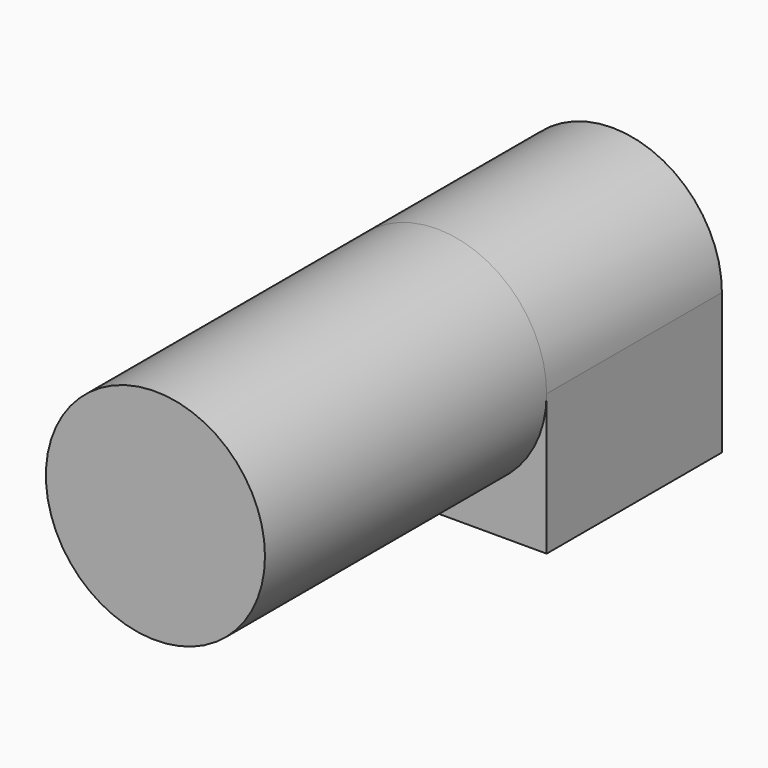
from build123d import *

# Parameters (mm, degrees)
F1_DEPTH = 500
F2_DEPTH = 311.15


with BuildPart() as f1:
    # F0 (on Front) → F1 (new body)
    with BuildSketch(Plane.XZ):
        with BuildLine():
            ThreePointArc((-155.575, 0), (0, -155.575), (155.575, 0))
            ThreePointArc((155.575, 0), (0, 155.575), (-155.575, 0))
        make_face()
    extrude(amount=F1_DEPTH)

    # F0 (on Front) → F2 (join)
    with BuildSketch(Plane.XZ):
        with BuildLine():
            ThreePointArc((-155.575, 0), (0, -155.575), (155.575, 0))
            ThreePointArc((155.575, 0), (0, 155.575), (-155.575, 0))
        make_face()
        with BuildLine():
            Line((155.575, -200), (155.575, 0))
            ThreePointArc((155.575, 0), (0, -155.575), (-155.575, 0))
            Line((-155.575, 0), (-155.575, -200))
            Line((-155.575, -200), (155.575, -200))
        make_face()
    extrude(amount=-F2_DEPTH)


solid = f1.part
